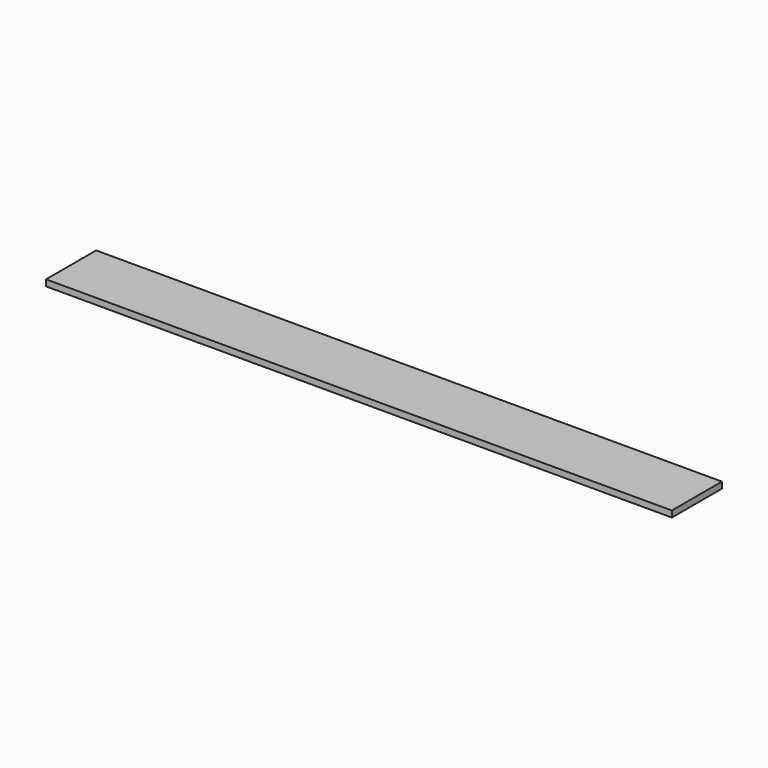
from build123d import *

# Parameters (mm, degrees)
BOX_W     = 100
BOX_H     = 10
BOX_DEPTH = 1


with BuildPart() as part:
    # Box → Box (new body)
    with BuildSketch(Plane.XY):
        with Locations((50, 5)):
            Rectangle(BOX_W, BOX_H)
    extrude(amount=BOX_DEPTH)


solid = part.part
